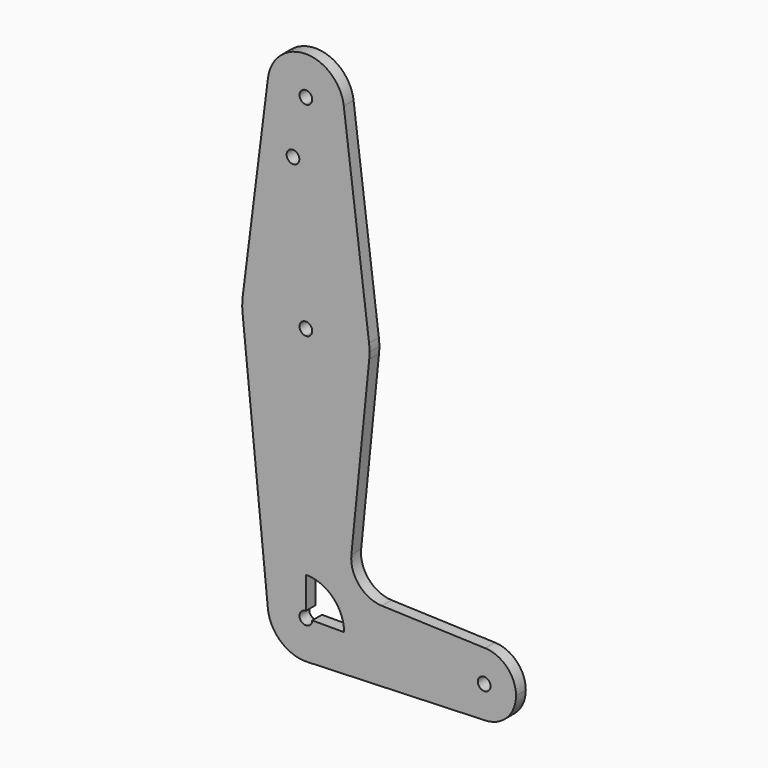
from build123d import *

# Parameters (mm, degrees)
F0_R     = 1.5875
F1_DEPTH = 3.048


with BuildPart() as f1:
    # F0 (on Front) → F1 (new body)
    with BuildSketch(Plane.XZ):
        with BuildLine():
            ThreePointArc((0, 9.525), (-7.063929, 6.389564), (-9.477255, -0.9525))
            ThreePointArc((-9.477255, -0.9525), (-6.262383, -7.17692), (0.340179, -9.518923))
            ThreePointArc((0.340179, -9.518923), (6.854408, -6.613827), (9.525, 0))
            Line((9.525, 0), (1.5875, 0))
            ThreePointArc((1.5875, 0), (-1.122532, -1.122532), (0, 1.5875))
            Line((0, 1.5875), (0, 9.525))
        make_face()
        with BuildLine():
            Line((-15.795426, 61.9125), (-9.477255, -0.9525))
            ThreePointArc((-9.477255, -0.9525), (-7.063929, 6.389564), (0, 9.525))
            Line((0, 9.525), (0, 47.625))
            ThreePointArc((0, 47.625), (-10.649274, 51.726785), (-15.795426, 61.9125))
        make_face()
        with BuildLine():
            ThreePointArc((9.525, 0), (6.854408, -6.613827), (0.340179, -9.518923))
            Line((0.340179, -9.518923), (44.733482, -7.932436))
            ThreePointArc((44.733482, -7.932436), (38.938477, -5.712007), (36.5125, 0))
            Line((36.5125, 0), (9.525, 0))
        make_face()
        with BuildLine():
            Line((0, 47.625), (0, 9.525))
            ThreePointArc((0, 9.525), (6.735192, 6.735192), (9.525, 0))
            Line((9.525, 0), (36.5125, 0))
            ThreePointArc((36.5125, 0), (38.938477, 5.712007), (44.733482, 7.932436))
            Line((44.733482, 7.932436), (18.9676, 8.853234))
            ThreePointArc((18.9676, 8.853234), (13.2612, 11.571359), (11.341187, 17.593382))
            Line((11.341187, 17.593382), (15.795426, 61.9125))
            ThreePointArc((15.795426, 61.9125), (10.649274, 51.726785), (0, 47.625))
        make_face()
        with BuildLine():
            ThreePointArc((-15.750488, 65.484375), (-15.873744, 63.699705), (-15.795426, 61.9125))
            ThreePointArc((-15.795426, 61.9125), (-10.649274, 51.726785), (0, 47.625))
            Line((0, 47.625), (0, 61.9125))
            ThreePointArc((0, 61.9125), (-1.5875, 63.5), (0, 65.0875))
            Line((0, 65.0875), (0, 79.375))
            ThreePointArc((0, 79.375), (-10.500326, 75.40625), (-15.750488, 65.484375))
        make_face()
        with BuildLine():
            ThreePointArc((46.0375, 0), (44.45, 1.5875), (42.8625, 0))
            ThreePointArc((42.8625, 0), (44.45, -1.5875), (46.0375, 0))
        make_face()
        with BuildLine():
            ThreePointArc((36.5125, 0), (38.938477, -5.712007), (44.733482, -7.932436))
            ThreePointArc((44.733482, -7.932436), (50.162007, -5.511523), (52.3875, 0))
            ThreePointArc((52.3875, 0), (50.162007, 5.511523), (44.733482, 7.932436))
            ThreePointArc((44.733482, 7.932436), (38.938477, 5.712007), (36.5125, 0))
        make_face()
        with BuildLine():
            ThreePointArc((46.0375, 0), (44.45, -1.5875), (42.8625, 0))
            ThreePointArc((42.8625, 0), (44.45, 1.5875), (46.0375, 0))
        make_face(mode=Mode.SUBTRACT)
        with BuildLine():
            Line((0, 61.9125), (0, 47.625))
            ThreePointArc((0, 47.625), (10.649274, 51.726785), (15.795426, 61.9125))
            ThreePointArc((15.795426, 61.9125), (15.855094, 62.705253), (15.875, 63.5))
            ThreePointArc((15.875, 63.5), (15.843841, 64.494139), (15.750488, 65.484375))
            ThreePointArc((15.750488, 65.484375), (10.500326, 75.40625), (0, 79.375))
            Line((0, 79.375), (0, 65.0875))
            ThreePointArc((0, 65.0875), (1.122532, 64.622532), (1.5875, 63.5))
            ThreePointArc((1.5875, 63.5), (1.122532, 62.377468), (0, 61.9125))
        make_face()
        with BuildLine():
            Line((-9.450293, 115.490625), (-15.750488, 65.484375))
            ThreePointArc((-15.750488, 65.484375), (-10.500326, 75.40625), (0, 79.375))
            Line((0, 79.375), (0, 104.775))
            ThreePointArc((0, 104.775), (-7.14375, 107.999805), (-9.450293, 115.490625))
        make_face()
        with Locations((-3.211329, 100.174367)):
            Circle(F0_R, mode=Mode.SUBTRACT)
        with BuildLine():
            Line((0, 104.775), (0, 79.375))
            ThreePointArc((0, 79.375), (10.500326, 75.40625), (15.750488, 65.484375))
            Line((15.750488, 65.484375), (9.450293, 115.490625))
            ThreePointArc((9.450293, 115.490625), (9.506305, 114.896483), (9.525, 114.3))
            ThreePointArc((9.525, 114.3), (6.735192, 107.564808), (0, 104.775))
        make_face()
        with BuildLine():
            ThreePointArc((1.5875, 114.3), (-1.122532, 115.422532), (0, 112.7125))
            ThreePointArc((0, 112.7125), (1.122532, 113.177468), (1.5875, 114.3))
        make_face()
        with BuildLine():
            ThreePointArc((9.450293, 115.490625), (0, 123.825), (-9.450293, 115.490625))
            ThreePointArc((-9.450293, 115.490625), (-7.14375, 107.999805), (0, 104.775))
            ThreePointArc((0, 104.775), (6.735192, 107.564808), (9.525, 114.3))
            ThreePointArc((9.525, 114.3), (9.506305, 114.896483), (9.450293, 115.490625))
        make_face()
        with BuildLine():
            ThreePointArc((1.5875, 114.3), (1.122532, 113.177468), (0, 112.7125))
            ThreePointArc((0, 112.7125), (-1.122532, 115.422532), (1.5875, 114.3))
        make_face(mode=Mode.SUBTRACT)
    extrude(amount=F1_DEPTH)


solid = f1.part
